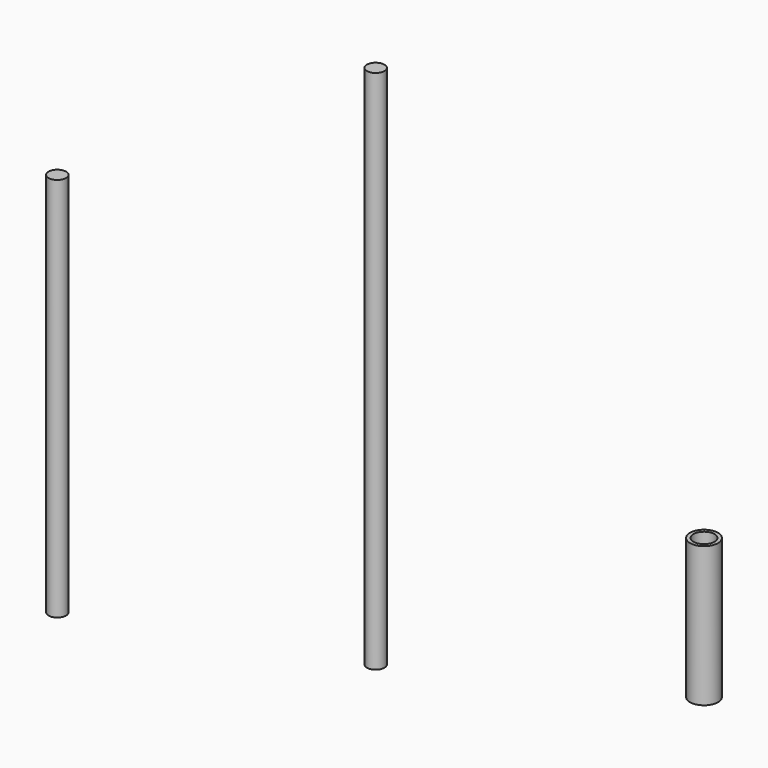
from build123d import *

# Parameters (mm, degrees)
F0_R     = 5
F1_DEPTH = 300
F2_R     = 5
F3_DEPTH = 220
F4_R     = 8
F4_R_2   = 6
F5_DEPTH = 80


with BuildPart() as f1:
    # F0 (on Top) → F1 (new body)
    with BuildSketch(Plane.XY):
        Circle(F0_R)
    extrude(amount=F1_DEPTH)


with BuildPart() as f3:
    # F2 (on Top) → F3 (new body)
    with BuildSketch(Plane.XY):
        with Locations((-142.326102, -49.371749)):
            Circle(F2_R)
    extrude(amount=F3_DEPTH)


with BuildPart() as f5:
    # F4 (on Top) → F5 (new body)
    with BuildSketch(Plane.XY):
        with Locations((133.962542, 66.940188)):
            Circle(F4_R)
        with Locations((133.962542, 66.940188)):
            Circle(F4_R_2, mode=Mode.SUBTRACT)
    extrude(amount=F5_DEPTH)


solid = Compound([f1.part, f3.part, f5.part])
